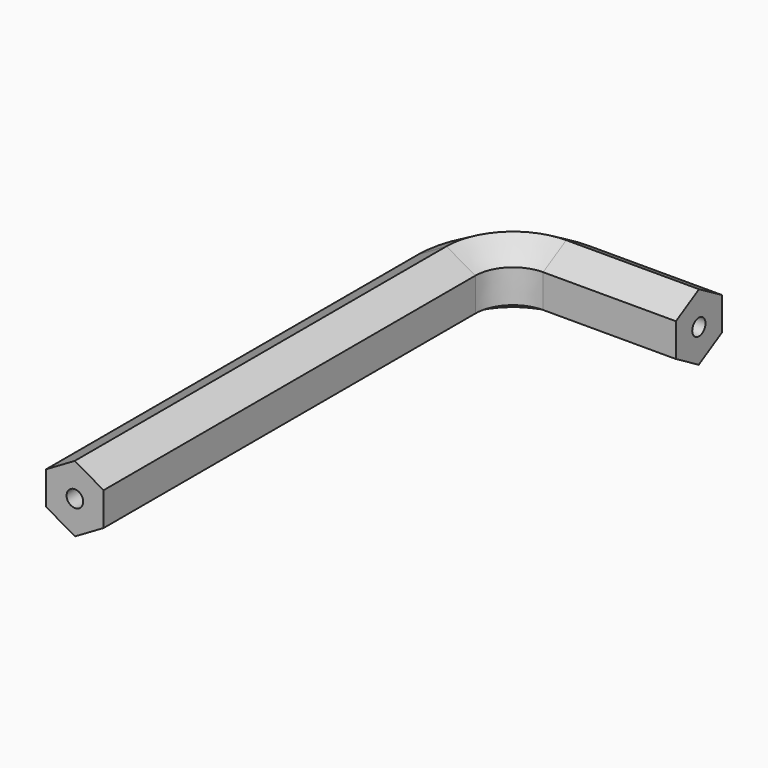
from build123d import *

# Parameters (mm, degrees)
F3_R = 0.79375


with BuildPart() as f2:
    # F2: sweep along a path in F1
    with BuildLine(Plane.XY) as f2_path:
        Line((0, 0), (0, 44.45))
        ThreePointArc((0, 44.45), (1.8598719395, 48.9401280605), (6.35, 50.8))
        Line((6.35, 50.8), (19.05, 50.8))
    # F0 (on Front) → F2 (sweep)
    with BuildSketch(Plane.XZ):
        Polygon((0.0141373198, -3.175), (2.7566993169, -1.5752567219), (2.7425619971, 1.5997432781), (-0.0141373198, 3.175), (-2.7566993169, 1.5752567219), (-2.7425619971, -1.5997432781), align=None)
    sweep(path=f2_path.line)

    # F4: sweep along a path in F1
    with BuildLine(Plane.XY) as f4_path:
        Line((0, 0), (0, 44.45))
        ThreePointArc((0, 44.45), (1.8598719395, 48.9401280605), (6.35, 50.8))
        Line((6.35, 50.8), (19.05, 50.8))
    # F3 (on Front) → F4 (sweep, cut)
    with BuildSketch(Plane.XZ):
        Circle(F3_R)
    sweep(path=f4_path.line, mode=Mode.SUBTRACT)


solid = f2.part
